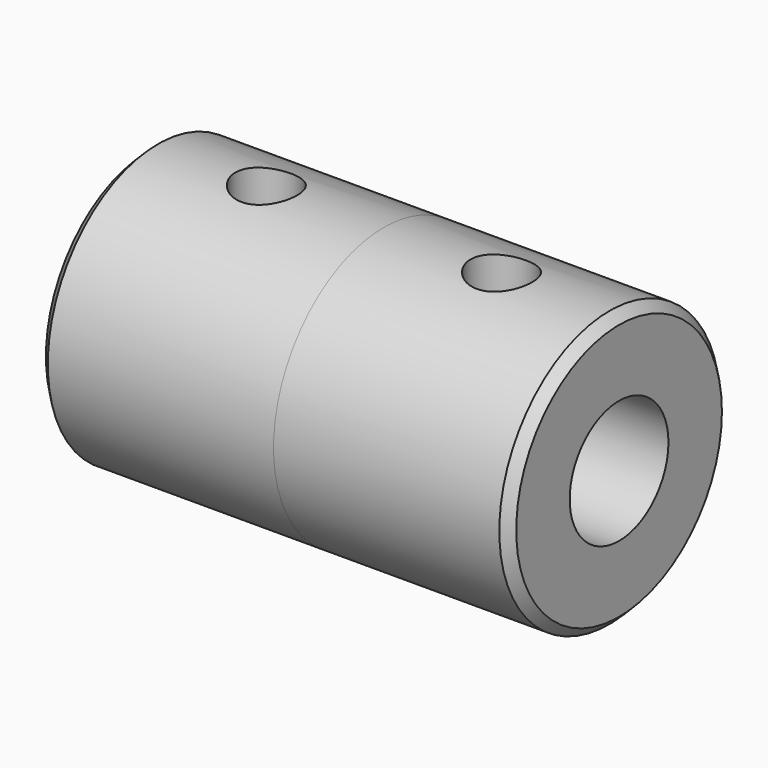
from build123d import *

# Parameters (mm, degrees)
F0_R     = 11.176
F0_R_2   = 6
F1_DEPTH = 19.05
F2_R     = 11.176
F2_R_2   = 5
F3_DEPTH = 19.05
F4_SIZE  = 0.762
F7_D     = 5
F7_DEPTH = 12.7
F7_START = 0.2832054
F7_TIP   = 1.5021515476


with BuildPart() as f1:
    # F0 (on Right) → F1 (new body)
    with BuildSketch(Plane.YZ):
        Circle(F0_R)
        Circle(F0_R_2, mode=Mode.SUBTRACT)
    extrude(amount=-F1_DEPTH)

    # F2 (on Right) → F3 (join)
    with BuildSketch(Plane.YZ):
        Circle(F2_R)
        Circle(F2_R_2, mode=Mode.SUBTRACT)
    extrude(amount=F3_DEPTH)

    # F4
    f4_edges = [f1.edges().sort_by_distance(p)[0] for p in [
        (-19.05, -11.176, 0),
        (19.05, -11.176, 0),
    ]]
    chamfer(f4_edges, length=F4_SIZE)

    # F7
    # its depths count from where the whole tool has entered the part; down to there all is cleared
    with Locations(Plane.XY.offset(11.176).offset(-F7_START)):
        with Locations((-9.525, 0), (9.525, 0)):
            Hole(F7_D / 2, depth=F7_DEPTH)
            with Locations((0, 0, -(F7_DEPTH + F7_TIP / 2))):  # 118° drill point
                Cone(0, F7_D / 2, F7_TIP, mode=Mode.SUBTRACT)


solid = f1.part
